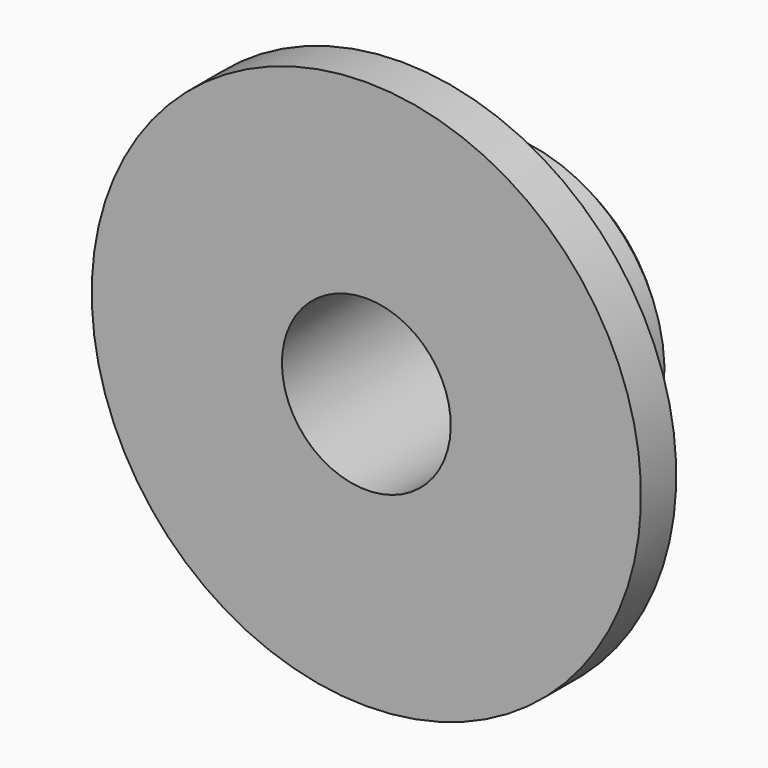
from build123d import *

# Parameters (mm, degrees)
F0_W    = 12.1064567938
F0_H    = 32.1685820818
F0_H_2  = 20.0621243566
F0_W_2  = 41.1619497463
F2_SIZE = 5


with BuildPart() as f1:
    # F0 (on Right) → F1 (revolve)
    with BuildSketch(Plane.YZ):
        with Locations((6.0532283969, 59.3216270208)):
            Rectangle(F0_W, F0_H)
        with Locations((6.0532283969, 33.2062738016)):
            Rectangle(F0_W, F0_H_2)
        with Locations((32.687431667, 33.2062738016)):
            Rectangle(F0_W_2, F0_H_2)
    revolve(axis=Axis((0, 26.6342032701, 0), (0, 1, 0)))

    # F2
    f2_edges = [f1.edges().sort_by_distance(p)[0] for p in [
        (0, 12.106457, -43.237336),
        (0, 53.268407, -43.237336),
    ]]
    chamfer(f2_edges, length=F2_SIZE)


solid = f1.part
